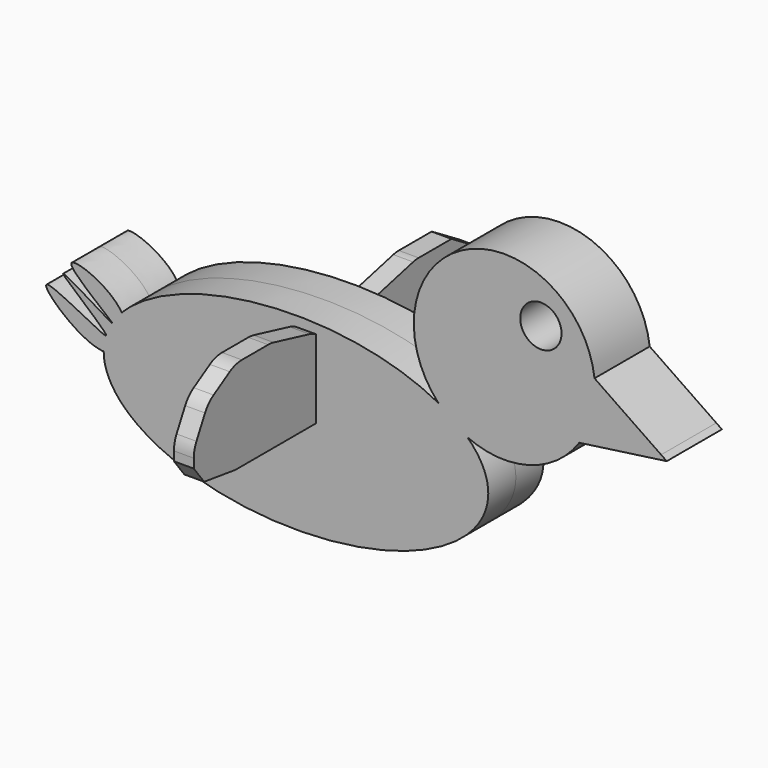
from build123d import *

# Parameters (mm, degrees)
F2_DEPTH = 3.4
F0_R     = 3.5322272549
F3_DEPTH = 5.9
F5_R     = 5


with BuildPart() as f2:
    # F1 (on Right) → F2 (new body)
    with BuildSketch(Plane.YZ):
        with BuildLine():
            Line((5.1899361501, 4.4330699), (0, 0))
            Line((0, 0), (-5.1899361501, 4.4330699))
            ThreePointArc((-5.1899361501, 4.4330699), (-6.1606445906, 5.0827789403), (-7.2556070337, 5.4895392649))
            Line((-7.2556070337, 5.4895392649), (-14.9135797825, 7.3522897826))
            ThreePointArc((-14.9135797825, 7.3522897826), (-15.5002285919, 7.4584099911), (-16.0953379116, 7.4939518236))
            Line((-16.0953379116, 7.4939518236), (-23.1169369072, 7.4939518236))
            Line((-23.1169369072, 7.4939518236), (-28.959678486, 3.9375000633))
            Line((-28.959678486, 3.9375000633), (-32.0080667734, -1.9052419811))
            Line((-32.0080667734, -1.9052419811), (-32.0080667734, -4.6995966695))
            Line((-32.0080667734, -4.6995966695), (-29.7905169427, -7.5855152681))
            Line((-29.7905169427, -7.5855152681), (-23.1169369072, -8.5100810975))
            Line((-23.1169369072, -8.5100810975), (-15.750002116, -8.5100810975))
            Line((-15.750002116, -8.5100810975), (-8.8911280036, -8.5100810975))
            Line((-8.8911280036, -8.5100810975), (-3.3024190925, -8.5100810975))
            Line((-3.3024190925, -8.5100810975), (0, -8.5100810975))
            Line((0, -8.5100810975), (3.3024190925, -8.5100810975))
            Line((3.3024190925, -8.5100810975), (8.8911280036, -8.5100810975))
            Line((8.8911280036, -8.5100810975), (15.750002116, -8.5100810975))
            Line((15.750002116, -8.5100810975), (23.1169369072, -8.5100810975))
            Line((23.1169369072, -8.5100810975), (29.7905169427, -7.5855152681))
            Line((29.7905169427, -7.5855152681), (32.0080667734, -4.6995966695))
            Line((32.0080667734, -4.6995966695), (32.0080667734, -1.9052419811))
            Line((32.0080667734, -1.9052419811), (28.959678486, 3.9375000633))
            Line((28.959678486, 3.9375000633), (23.1169369072, 7.4939518236))
            Line((23.1169369072, 7.4939518236), (16.0953379116, 7.4939518236))
            ThreePointArc((16.0953379116, 7.4939518236), (15.5002285919, 7.4584099911), (14.9135797825, 7.3522897826))
            Line((14.9135797825, 7.3522897826), (7.2556070337, 5.4895392649))
            ThreePointArc((7.2556070337, 5.4895392649), (6.1606445906, 5.0827789403), (5.1899361501, 4.4330699))
        make_face()
    extrude(amount=F2_DEPTH)

    # F0 (on Front) → F3 (join)
    with BuildSketch(Plane.XZ):
        with BuildLine():
            ThreePointArc((50.7238964132, 8.2425397257), (51.0712900407, 10.1106775656), (51.1876700084, 12.0072737336))
            ThreePointArc((51.1876700084, 12.0072737336), (51.1618612788, 12.9017204052), (51.0845209695, 13.7931907724))
            ThreePointArc((51.0845209695, 13.7931907724), (29.1373428837, 26.0743183846), (24.3759328436, 1.379507274))
            add(Edge.make_bspline(
                [(29.3300002621, -2.147720467), (27.333914584, -0.2214232297), (24.3759328436, 1.379507274)],
                knots=[3.6120387141, 3.6120387141, 3.6120387141, 3.878117372, 3.878117372, 3.878117372], degree=2, weights=[1, 0.9911633137, 1]))
            ThreePointArc((29.3300002621, -2.147720467), (39.8793900631, -2.9244261965), (48.473942124, 3.2421426902))
            ThreePointArc((48.473942124, 3.2421426902), (49.8216153086, 5.6421379828), (50.7238964132, 8.2425397257))
        make_face()
        with Locations((41.9100001454, 18.703635782)):
            Circle(F0_R, mode=Mode.SUBTRACT)
        with BuildLine():
            ThreePointArc((51.0845209695, 13.7931907724), (51.1618612788, 12.9017204052), (51.1876700084, 12.0072737336))
            ThreePointArc((51.1876700084, 12.0072737336), (51.0712900407, 10.1106775656), (50.7238964132, 8.2425397257))
            Line((50.7238964132, 8.2425397257), (62.4843521348, 5.9868156539))
            Line((62.4843521348, 5.9868156539), (51.0845209695, 13.7931907724))
        make_face()
        with BuildLine():
            Line((62.5255977297, 5.2005367167), (50.7238964132, 8.2425397257))
            ThreePointArc((50.7238964132, 8.2425397257), (49.8216153086, 5.6421379828), (48.473942124, 3.2421426902))
            Line((48.473942124, 3.2421426902), (62.5255977297, 5.2005367167))
        make_face()
        Polygon((62.4843521348, 5.9868156539), (50.7238964132, 8.2425397257), (62.5255977297, 5.2005367167), (63.4453743696, 5.3287269548), align=None)
        with BuildLine():
            add(Edge.make_bspline(
                [(29.3300002621, -2.147720467), (27.333914584, -0.2214232297), (24.3759328436, 1.379507274)],
                knots=[3.6120387141, 3.6120387141, 3.6120387141, 3.878117372, 3.878117372, 3.878117372], degree=2, weights=[1, 0.9911633137, 1]))
            ThreePointArc((24.3759328436, 1.379507274), (26.6784202094, -0.6292606996), (29.3300002621, -2.147720467))
        make_face()
        with BuildLine():
            ThreePointArc((29.3300002621, -2.147720467), (26.6784202094, -0.6292606996), (24.3759328436, 1.379507274))
            add(Edge.make_bspline(
                [(24.3759328436, 1.379507274), (-8.8534444598, 19.3640414648), (-29.8070528208, -2.6275665701)],
                knots=[3.878117372, 3.878117372, 3.878117372, 5.8458046955, 5.8458046955, 5.8458046955], degree=2, weights=[1, 0.553826289, 1]))
            add(Edge.make_bspline(
                [(-32.9045467079, -9.4672730193), (-29.5871785013, -9.567963443), (-27.9260766744, -5.6824967661), (-29.8070528208, -2.6275665701)],
                knots=[0.8754804976, 0.8754804976, 0.8754804976, 0.8754804976, 1, 1, 1, 1], degree=3))
            add(Edge.make_bspline(
                [(-32.9045467079, -9.4672730193), (-32.9045467079, -29.9423508925), (7.668729702, -25.1704317036), (48.2420061119, -20.3985125147), (29.3300002621, -2.147720467)],
                knots=[0, 0, 0, 1.8060193571, 1.8060193571, 3.6120387141, 3.6120387141, 3.6120387141], degree=2, weights=[1, 0.6192495943, 1, 0.6192495943, 1]))
        make_face()
        with BuildLine():
            add(Edge.make_bspline(
                [(-32.9045467079, -9.4672730193), (-29.5871785013, -9.567963443), (-27.9260766744, -5.6824967661), (-29.8070528208, -2.6275665701)],
                knots=[0.8754804976, 0.8754804976, 0.8754804976, 0.8754804976, 1, 1, 1, 1], degree=3))
            add(Edge.make_bspline(
                [(-29.8070528208, -2.6275665701), (-30.7742242797, -3.6426497605), (-31.4464247132, -4.7135619811)],
                knots=[5.8458046955, 5.8458046955, 5.8458046955, 5.9843713156, 5.9843713156, 5.9843713156], degree=2, weights=[1, 0.9976008714, 1]))
            add(Edge.make_bspline(
                [(-31.4464247132, -4.7135619811), (-31.4433181339, -4.7240720501), (-31.4468398493, -4.730001777), (-31.4574065674, -4.7310930395)],
                knots=[0.2781978727, 0.2781978727, 0.2781978727, 0.2781978727, 0.2825287093, 0.2825287093, 0.2825287093, 0.2825287093], degree=3))
            add(Edge.make_bspline(
                [(-31.4574065674, -4.7310930395), (-32.1281797541, -5.804061611), (-32.4900409288, -6.9122519104)],
                knots=[5.9855071177, 5.9855071177, 5.9855071177, 6.1242906473, 6.1242906473, 6.1242906473], degree=2, weights=[1, 0.9975933574, 1]))
            add(Edge.make_bspline(
                [(-32.4900409288, -6.9122519104), (-32.490766677, -6.9152706245), (-32.4917039163, -6.9181433868), (-32.4928506806, -6.9208716131)],
                knots=[0.5677650433, 0.5677650433, 0.5677650433, 0.5677650433, 0.5685139027, 0.5685139027, 0.5685139027, 0.5685139027], degree=3))
            add(Edge.make_bspline(
                [(-32.4928506806, -6.9208716131), (-32.9045467079, -8.1860571398), (-32.9045467079, -9.4672730193)],
                knots=[6.1248312335, 6.1248312335, 6.1248312335, 6.2831853072, 6.2831853072, 6.2831853072], degree=2, weights=[1, 0.9968671356, 1]))
        make_face()
        with BuildLine():
            add(Edge.make_bspline(
                [(-29.8070528208, -2.6275665701), (-30.7742242797, -3.6426497605), (-31.4464247132, -4.7135619811)],
                knots=[5.8458046955, 5.8458046955, 5.8458046955, 5.9843713156, 5.9843713156, 5.9843713156], degree=2, weights=[1, 0.9976008714, 1]))
            add(Edge.make_bspline(
                [(-29.8070528208, -2.6275665701), (-31.9482338648, 0.8499674958), (-45.1589938624, 5.5629545939), (-31.5443046351, -4.3824180992), (-31.4464247132, -4.7135619811)],
                knots=[0, 0, 0, 0, 0.1417449119, 0.2781978727, 0.2781978727, 0.2781978727, 0.2781978727], degree=3))
        make_face()
        with BuildLine():
            add(Edge.make_bspline(
                [(-32.4928506806, -6.9208716131), (-32.72268534, -7.4676631063), (-50.4062087574, 3.2883189421), (-37.084044413, -9.3404148085), (-32.9045467079, -9.4672730193)],
                knots=[0.5685139027, 0.5685139027, 0.5685139027, 0.5685139027, 0.718600422, 0.8754804976, 0.8754804976, 0.8754804976, 0.8754804976], degree=3))
            add(Edge.make_bspline(
                [(-32.4928506806, -6.9208716131), (-32.9045467079, -8.1860571398), (-32.9045467079, -9.4672730193)],
                knots=[6.1248312335, 6.1248312335, 6.1248312335, 6.2831853072, 6.2831853072, 6.2831853072], degree=2, weights=[1, 0.9968671356, 1]))
        make_face()
        with BuildLine():
            add(Edge.make_bspline(
                [(-31.4464247132, -4.7135619811), (-31.4433181339, -4.7240720501), (-31.4468398493, -4.730001777), (-31.4574065674, -4.7310930395)],
                knots=[0.2781978727, 0.2781978727, 0.2781978727, 0.2781978727, 0.2825287093, 0.2825287093, 0.2825287093, 0.2825287093], degree=3))
            add(Edge.make_bspline(
                [(-31.4464247132, -4.7135619811), (-31.4519257839, -4.72232598), (-31.4574065674, -4.7310930395)],
                knots=[5.9843713156, 5.9843713156, 5.9843713156, 5.9855071177, 5.9855071177, 5.9855071177], degree=2, weights=[1, 0.9999998387, 1]))
        make_face()
        with BuildLine():
            add(Edge.make_bspline(
                [(-32.4900409288, -6.9122519104), (-32.4914481785, -6.9165615754), (-32.4928506806, -6.9208716131)],
                knots=[6.1242906473, 6.1242906473, 6.1242906473, 6.1248312335, 6.1248312335, 6.1248312335], degree=2, weights=[1, 0.9999999635, 1]))
            add(Edge.make_bspline(
                [(-32.4900409288, -6.9122519104), (-32.490766677, -6.9152706245), (-32.4917039163, -6.9181433868), (-32.4928506806, -6.9208716131)],
                knots=[0.5677650433, 0.5677650433, 0.5677650433, 0.5677650433, 0.5685139027, 0.5685139027, 0.5685139027, 0.5685139027], degree=3))
        make_face()
        with BuildLine():
            add(Edge.make_bspline(
                [(-31.4574065674, -4.7310930395), (-32.1281797541, -5.804061611), (-32.4900409288, -6.9122519104)],
                knots=[5.9855071177, 5.9855071177, 5.9855071177, 6.1242906473, 6.1242906473, 6.1242906473], degree=2, weights=[1, 0.9975933574, 1]))
            add(Edge.make_bspline(
                [(-31.4574065674, -4.7310930395), (-31.8012683369, -4.7666048664), (-47.5965511675, 5.5316568956), (-32.3501919761, -6.33055706), (-32.4900409288, -6.9122519104)],
                knots=[0.2825287093, 0.2825287093, 0.2825287093, 0.2825287093, 0.4234626411, 0.5677650433, 0.5677650433, 0.5677650433, 0.5677650433], degree=3))
        make_face()
    extrude(amount=F3_DEPTH)

    # F4: F2 across plane


with BuildPart() as f2_1:
    add(f2.part)
    add(f2.part.mirror(Plane.XZ))

    # F5
    f5_edges = [f2_1.edges().sort_by_distance(p)[0] for p in [
        (1.7, -28.959678, 3.9375),
        (1.7, -23.116937, 7.493952),
        (1.7, -16.095338, 7.493952),
        (1.7, -32.008067, -1.905242),
    ]]
    fillet(f5_edges, radius=F5_R)


solid = f2_1.part
